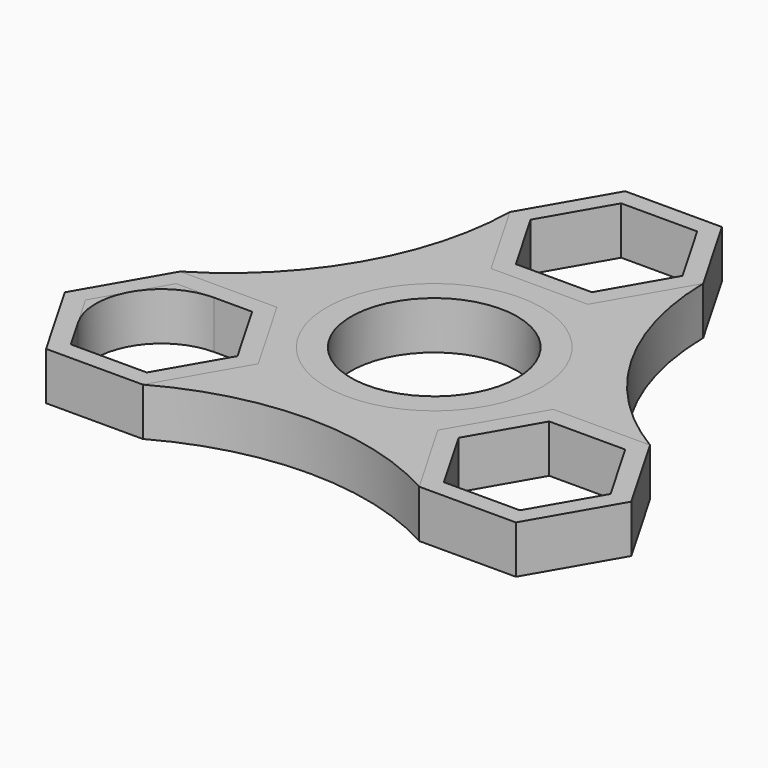
from build123d import *

# Parameters (mm, degrees)
F1_R     = 14.2875
F2_DEPTH = 6.35
F0_R     = 14.2875
F0_R_2   = 11.0236


with BuildPart() as f2:
    # F1 (on Top) → F2 (new body)
    with BuildSketch(Plane.XY):
        with BuildLine():
            Line((-9.6257781888, 23.0223384301), (-12.8316088413, 28.579783006))
            ThreePointArc((-12.8316088413, 28.579783006), (-17.8702177803, 10.3228755027), (-31.158338129, -3.172609269))
            Line((-31.158338129, -3.172609269), (-24.7425337308, -3.175000772))
            Line((-24.7425337308, -3.175000772), (-18.3267292877, -3.177392275))
            Line((-18.3267292877, -3.177392275), (-15.120897628, -8.7348385972))
            Line((-15.120897628, -8.7348385972), (-11.9150670718, -14.292283006))
            Line((-11.9150670718, -14.292283006), (-15.1250400311, -19.8473362568))
            Line((-15.1250400311, -19.8473362568), (-18.3350136972, -25.402390731))
            ThreePointArc((-18.3350136972, -25.402390731), (-0.0047635353, -20.6375003203), (18.3267292877, -25.397607725))
            Line((18.3267292877, -25.397607725), (15.120897642, -19.8401614272))
            Line((15.120897642, -19.8401614272), (11.9150670718, -14.282716994))
            Line((11.9150670718, -14.282716994), (15.1250401794, -8.7276634864))
            Line((15.1250401794, -8.7276634864), (18.3350136972, -3.172609269))
            Line((18.3350136972, -3.172609269), (24.7508187743, -3.1750007723))
            Line((24.7508187743, -3.1750007723), (31.1666225385, -3.177392275))
            ThreePointArc((31.1666225385, -3.177392275), (17.8749813156, 10.3146248176), (12.8316088413, 28.570216994))
            Line((12.8316088413, 28.570216994), (9.6216358038, 23.0151636077))
            ThreePointArc((9.6216358038, 23.0151636077), (-0.0041423855, 17.4625007721), (-9.6257781888, 23.0223384301))
        make_face()
        Circle(F1_R, mode=Mode.SUBTRACT)
    extrude(amount=F2_DEPTH)


with BuildPart() as f2b:
    # F1 (on Top) → F2, piece 2 (new body)
    with BuildSketch(Plane.XY):
        with BuildLine():
            ThreePointArc((-15.120897628, -8.7348385972), (-19.1868385762, -4.6658647421), (-24.7425337308, -3.175000772))
            ThreePointArc((-24.7425337308, -3.175000772), (-34.3683112264, -8.7276627587), (-34.3724540879, -19.8401615943))
            ThreePointArc((-34.3724540879, -19.8401615943), (-30.3065133789, -23.9091351835), (-24.7508186141, -25.3999992278))
            ThreePointArc((-24.7508186141, -25.3999992278), (-19.1940134626, -23.9132776808), (-15.1250400311, -19.8473362568))
            ThreePointArc((-15.1250400311, -19.8473362568), (-14.0133613042, -17.1656267789), (-13.6341759131, -14.2875))
            ThreePointArc((-13.6341759131, -14.2875), (-14.0122891714, -11.413374476), (-15.120897628, -8.7348385972))
        make_face()
        with BuildLine():
            Line((-17.1851915093, -9.921875168), (-14.6646968374, -14.2875))
            Line((-14.6646968374, -14.2875), (-17.1851916335, -18.6531250471))
            Line((-17.1851916335, -18.6531250471), (-19.7056863753, -23.01875))
            Line((-19.7056863753, -23.01875), (-24.7466759131, -23.01875))
            Line((-24.7466759131, -23.01875), (-29.787665451, -23.01875))
            Line((-29.787665451, -23.01875), (-32.3081602983, -18.6531248642))
            ThreePointArc((-32.3081602983, -18.6531248642), (-32.3081601807, -9.9218749321), (-24.7466759131, -5.55625))
            Line((-24.7466759131, -5.55625), (-19.7056863753, -5.55625))
            Line((-19.7056863753, -5.55625), (-17.1851915093, -9.921875168))
        make_face(mode=Mode.SUBTRACT)
    extrude(amount=F2_DEPTH)


with BuildPart() as f2c:
    # F0 (on Top) → F2, piece 3 (new body)
    with BuildSketch(Plane.XY):
        Polygon((12.8316088413, 28.570216994), (6.4199466254, 39.685107725), (-6.4116622159, 39.689890731), (-12.8316088413, 28.579783006), (-6.4199466254, 17.464892275), (6.4116622159, 17.460109269), align=None)
        Polygon((10.0819790757, 28.575), (5.0409895379, 19.84375), (-5.0409895379, 19.84375), (-10.0819790757, 28.575), (-5.0409895379, 37.30625), (5.0409895379, 37.30625), align=None, mode=Mode.SUBTRACT)
    extrude(amount=F2_DEPTH)


with BuildPart() as f2d:
    # F0 (on Top) → F2, piece 4 (new body)
    with BuildSketch(Plane.XY):
        Circle(F0_R)
        Circle(F0_R_2, mode=Mode.SUBTRACT)
    extrude(amount=F2_DEPTH)


with BuildPart() as f2e:
    # F0 (on Top) → F2, piece 5 (new body)
    with BuildSketch(Plane.XY):
        Polygon((31.1666225385, -3.177392275), (18.3350136972, -3.172609269), (11.9150670718, -14.282716994), (18.3267292877, -25.397607725), (31.158338129, -25.402390731), (37.5782847544, -14.292283006), align=None)
        Polygon((19.7056863753, -23.01875), (14.6646968374, -14.2875), (19.7056863753, -5.55625), (29.787665451, -5.55625), (34.8286549889, -14.2875), (29.787665451, -23.01875), align=None, mode=Mode.SUBTRACT)
    extrude(amount=F2_DEPTH)


with BuildPart() as f2f:
    # F0 (on Top) → F2, piece 6 (new body)
    with BuildSketch(Plane.XY):
        Polygon((-18.3350136972, -25.402390731), (-11.9150670718, -14.292283006), (-18.3267292877, -3.177392275), (-31.158338129, -3.172609269), (-37.5782847544, -14.282716994), (-31.1666225385, -25.397607725), align=None)
        Polygon((-29.787665451, -5.55625), (-19.7056863753, -5.55625), (-14.6646968374, -14.2875), (-19.7056863753, -23.01875), (-29.787665451, -23.01875), (-34.8286549889, -14.2875), align=None, mode=Mode.SUBTRACT)
    extrude(amount=F2_DEPTH)


solid = Compound([f2.part, f2b.part, f2c.part, f2d.part, f2e.part, f2f.part])
